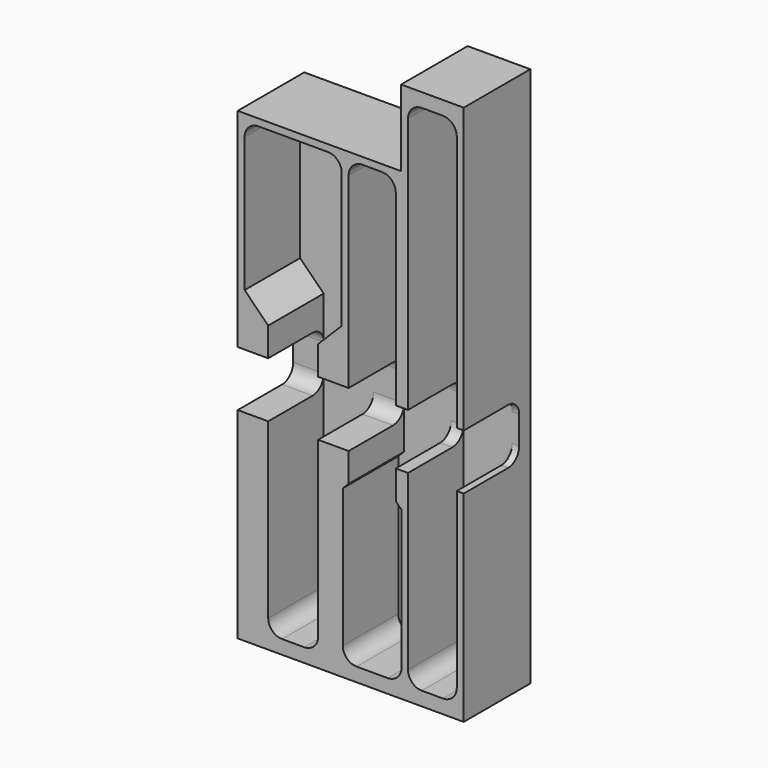
from build123d import *

# Parameters (mm, degrees)
F0_W          = 103.505
F0_H          = 247.65
F1_DEPTH      = 31.75
F1_DEPTH_BACK = 6.35
F2_W          = 22.352
F2_H          = 234.95
F3_DEPTH      = 31.75
F4_R          = 6.35
F5_W          = 74.803
F5_H          = 34.925
F6_DEPTH      = 38.101
F7_W          = 103.505
F7_H          = 25.4
F8_DEPTH      = 31.75
F9_R          = 6.35


with BuildPart() as f1:
    # F0 (on Front) → F1 (new body, two sides)
    with BuildSketch(Plane.XZ) as f1_sk:
        Rectangle(F0_W, F0_H)
    extrude(amount=F1_DEPTH)
    extrude(f1_sk.sketch, amount=-F1_DEPTH_BACK)

    # F2 (on Front) → F3 (cut, through all)
    with BuildSketch(Plane.XZ):
        with Locations((37.4015, 0)):
            Rectangle(F2_W, F2_H)
        Polygon((20.6375, 85.725), (-0.9525, 85.725), (-0.9525, -44.958), (-3.6195, -47.625), (-3.6195, -117.475), (23.3045, -117.475), (23.3045, -47.625), (20.6375, -44.958), align=None)
        Polygon((-37.7825, 6.858), (-37.7825, -117.475), (-14.9225, -117.475), (-14.9225, 6.858), (-4.1275, 17.653), (-4.1275, 85.725), (-48.5775, 85.725), (-48.5775, 17.653), align=None)
    extrude(amount=F3_DEPTH, mode=Mode.SUBTRACT)

    # F4
    f4_edges = [f1.edges().sort_by_distance(p)[0] for p in [
        (-48.5775, -15.875, 85.725),
        (-4.1275, -15.875, 85.725),
        (20.6375, -15.875, 85.725),
        (-0.9525, -15.875, 85.725),
        (-14.9225, -15.875, -117.475),
        (-37.7825, -15.875, -117.475),
        (23.3045, -15.875, -117.475),
        (-3.6195, -15.875, -117.475),
        (48.5775, -15.875, 117.475),
        (26.2255, -15.875, 117.475),
        (26.2255, -15.875, -117.475),
        (48.5775, -15.875, -117.475),
    ]]
    fillet(f4_edges, radius=F4_R)

    # F5 (on face) → F6 (cut, through all)
    with BuildSketch(Plane.XZ.offset(31.75)):
        with Locations((-14.351, 106.3625)):
            Rectangle(F5_W, F5_H)
    extrude(amount=-F6_DEPTH, mode=Mode.SUBTRACT)

    # F7 (on face) → F8 (cut)
    with BuildSketch(Plane.XZ.offset(31.75)):
        with Locations((0, -19.05)):
            Rectangle(F7_W, F7_H)
    extrude(amount=-F8_DEPTH, mode=Mode.SUBTRACT)

    # F9
    f9_edges = [f1.edges().sort_by_distance(p)[0] for p in [
        (-44.7675, 0, -6.35),
        (50.165, 0, -6.35),
        (23.4315, 0, -6.35),
        (-7.9375, 0, -6.35),
        (-44.7675, 0, -31.75),
        (-7.9375, 0, -31.75),
        (23.4315, 0, -31.75),
        (50.165, 0, -31.75),
    ]]
    fillet(f9_edges, radius=F9_R)


solid = f1.part
